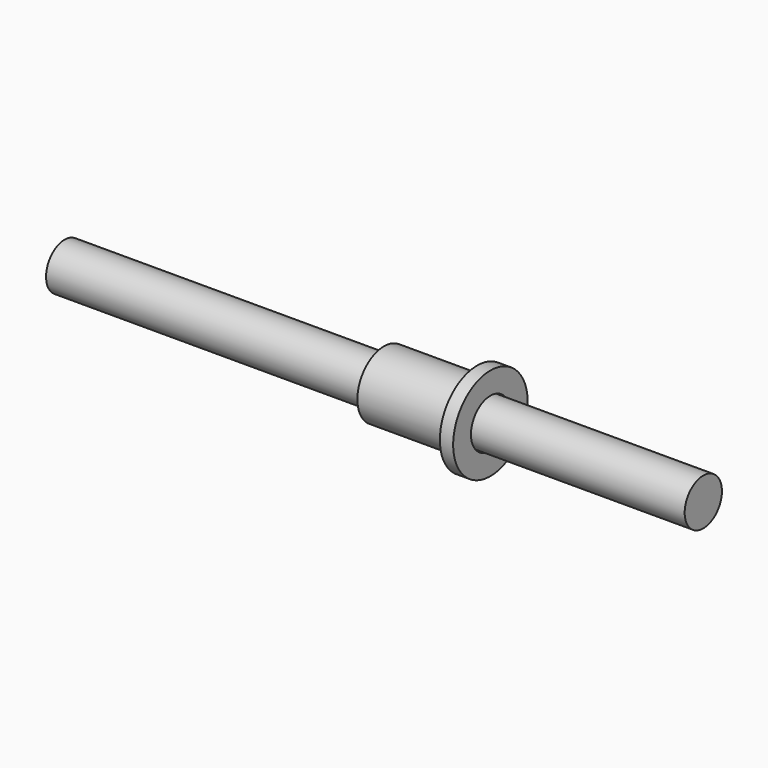
from build123d import *

# Parameters (mm, degrees)
F0_R     = 5.55625
F1_DEPTH = 76.2
F0_R_2   = 7.9375
F0_R_3   = 5.81025
F2_DEPTH = 25.4
F3_R     = 11.1125
F3_R_2   = 7.9375
F4_DEPTH = 3.175


with BuildPart() as f1:
    # F0 (on Right) → F1 (new body, symmetric)
    with BuildSketch(Plane.YZ):
        Circle(F0_R)
    extrude(amount=F1_DEPTH, both=True)


with BuildPart() as f2:
    # F0 (on Right) → F2 (new body)
    with BuildSketch(Plane.YZ):
        Circle(F0_R_2)
        Circle(F0_R_3, mode=Mode.SUBTRACT)
    extrude(amount=F2_DEPTH)

    # F3 (on face) → F4 (join)
    with BuildSketch(Plane.YZ.offset(25.4)):
        Circle(F3_R)
        Circle(F3_R_2, mode=Mode.SUBTRACT)
    extrude(amount=-F4_DEPTH)


solid = Compound([f1.part, f2.part])
